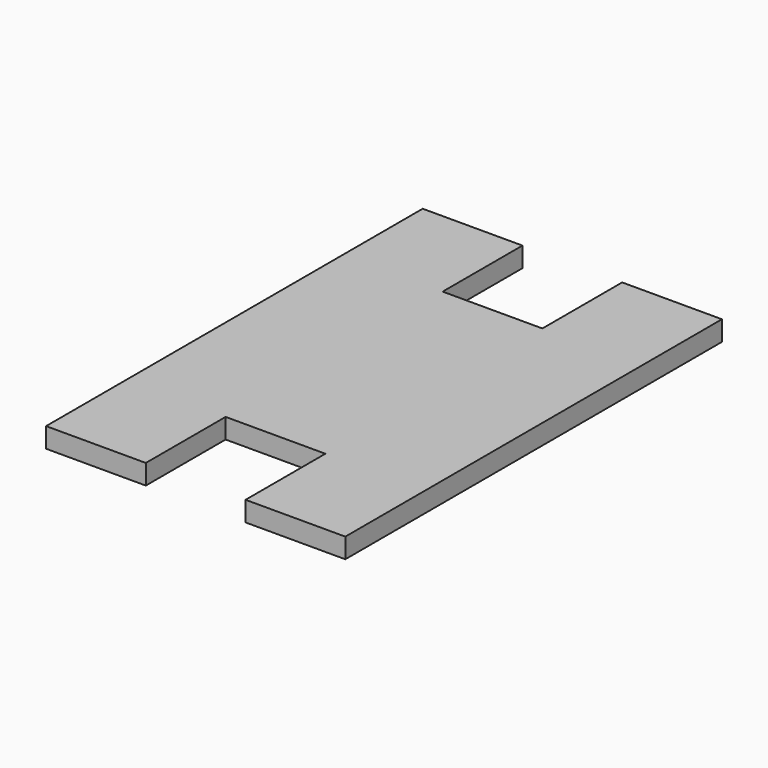
from build123d import *

# Parameters (mm, degrees)
PAD_DEPTH = 5


with BuildPart() as part:
    # Sketch → Pad (new body)
    with BuildSketch(Plane.XY):
        Polygon((0, 0), (25, 0), (25, 25), (50, 25), (50, 0), (75, 0), (75, 118), (50, 118), (50, 93), (25, 93), (25, 118), (0, 118), align=None)
    extrude(amount=PAD_DEPTH)


solid = part.part
